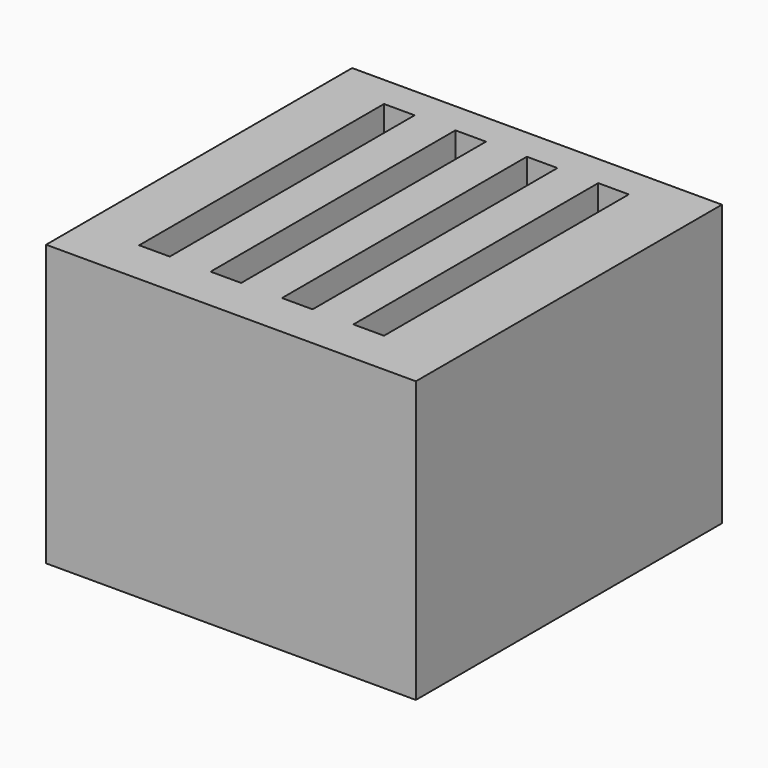
from build123d import *

# Parameters (mm, degrees)
BOX001_W     = 2.4
BOX001_H     = 24
BOX001_DEPTH = 22
BOX002_W     = 2.4
BOX002_H     = 24
BOX002_DEPTH = 22
BOX003_W     = 2.4
BOX003_H     = 24
BOX003_DEPTH = 22
BOX_W        = 2.4
BOX_H        = 24
BOX_DEPTH    = 22
BOX004_W     = 29
BOX004_H     = 30
BOX004_DEPTH = 22


with BuildPart() as ranura2:
    # Box001 → Box001 (new body)
    with BuildSketch(Plane(origin=(5.6, 0, 0), x_dir=(1, 0, 0), z_dir=(0, 0, 1))):
        with Locations((1.2, 12)):
            Rectangle(BOX001_W, BOX001_H)
    extrude(amount=BOX001_DEPTH)


with BuildPart() as ranura3:
    # Box002 → Box002 (new body)
    with BuildSketch(Plane(origin=(11.2, 0, 0), x_dir=(1, 0, 0), z_dir=(0, 0, 1))):
        with Locations((1.2, 12)):
            Rectangle(BOX002_W, BOX002_H)
    extrude(amount=BOX002_DEPTH)


with BuildPart() as ranura4:
    # Box003 → Box003 (new body)
    with BuildSketch(Plane(origin=(16.8, 0, 0), x_dir=(1, 0, 0), z_dir=(0, 0, 1))):
        with Locations((1.2, 12)):
            Rectangle(BOX003_W, BOX003_H)
    extrude(amount=BOX003_DEPTH)


with BuildPart() as ranuras:
    # Box → Box (new body)
    with BuildSketch(Plane.XY):
        with Locations((1.2, 12)):
            Rectangle(BOX_W, BOX_H)
    extrude(amount=BOX_DEPTH)

    # Fusion: union ranura2, ranura3, ranura4
    add(ranura2.part)
    add(ranura3.part)
    add(ranura4.part)


with BuildPart() as ranuras_1:
    # Fusion placement: moved
    add(ranuras.part.moved(Location((0, 0, 3))))


with BuildPart() as cut:
    # Box004 → Box004 (new body)
    with BuildSketch(Plane(origin=(-4.5, -3.5, 0), x_dir=(1, 0, 0), z_dir=(0, 0, 1))):
        with Locations((14.5, 15)):
            Rectangle(BOX004_W, BOX004_H)
    extrude(amount=BOX004_DEPTH)

    # Cut: cut ranuras
    add(ranuras_1.part, mode=Mode.SUBTRACT)


solid = cut.part
